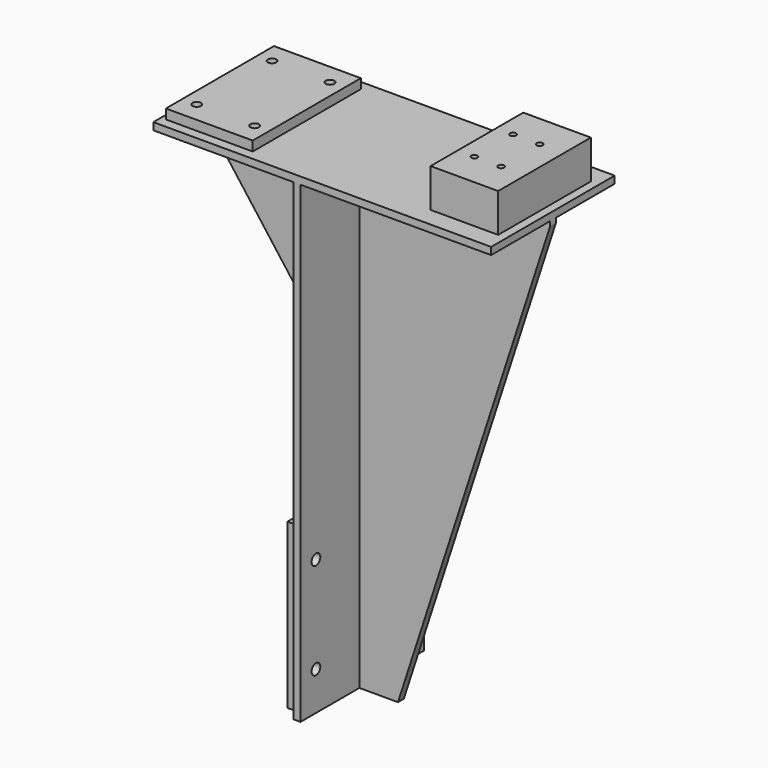
from build123d import *

# Parameters (mm, degrees)
F0_W      = 444.5
F0_H      = 203.2
F1_DEPTH  = 9.525
F2_W      = 114.3
F2_H      = 177.8
F3_DEPTH  = 12.7
F5_D      = 11.1125
F6_W      = 88.9
F6_H      = 152.4
F7_DEPTH  = 50.8
F9_D      = 7.9375
F11_W     = 203.2
F11_H     = 622.3
F12_DEPTH = 9.525
F14_DEPTH = 4.7625
F16_DEPTH = 4.7625
F17_W     = 190.5
F17_H     = 215.9
F18_DEPTH = 12.7
F20_D     = 14.2875


with BuildPart() as f1:
    # F0 (on Top) → F1 (new body)
    with BuildSketch(Plane.XY):
        Rectangle(F0_W, F0_H)
    extrude(amount=-F1_DEPTH)

    # F2 (on face) → F3 (join)
    with BuildSketch(Plane.XY):
        with Locations((-158.75, 0)):
            Rectangle(F2_W, F2_H)
    extrude(amount=F3_DEPTH)

    # F5 (through all)
    with Locations(Plane.XY.offset(12.7)):
        with Locations((-196.85, 61.976), (-120.65, 61.976), (-196.85, -61.976), (-120.65, -61.976)):
            Hole(F5_D / 2)

    # F6 (on face) → F7 (join)
    with BuildSketch(Plane.XY):
        with Locations((166.751, 0)):
            Rectangle(F6_W, F6_H)
    extrude(amount=F7_DEPTH)

    # F9 (through all)
    with Locations(Plane.XY.offset(50.8)):
        with Locations((144.399, 31.75), (179.451, 31.75), (144.399, -31.75), (179.451, -31.75)):
            Hole(F9_D / 2)

    # F11 (on offset) → F12 (join)
    with BuildSketch(Plane(origin=(-38.1, 0, 0), x_dir=(0, -1, 0), z_dir=(-1, 0, 0))):
        with Locations((0, -320.675)):
            Rectangle(F11_W, F11_H)
    extrude(amount=-F12_DEPTH)

    # F13 (on Front) → F14 (join, symmetric)
    with BuildSketch(Plane.XZ):
        Polygon((-38.1, -9.525), (-222.25, -9.525), (-222.25, -47.625), (-50.8, -276.225), (-38.1, -276.225), align=None)
    extrude(amount=F14_DEPTH, both=True)

    # F15 (on Front) → F16 (join, symmetric)
    with BuildSketch(Plane.XZ):
        Polygon((222.25, -9.525), (-28.575, -9.525), (-28.575, -631.825), (22.225, -631.825), (222.25, -15.875), align=None)
    extrude(amount=F16_DEPTH, both=True)

    # F17 (on face) → F18 (join)
    with BuildSketch(Plane(origin=(-38.1, 0, 0), x_dir=(0, -1, 0), z_dir=(-1, 0, 0))):
        with Locations((0, -517.525)):
            Rectangle(F17_W, F17_H)
    extrude(amount=F18_DEPTH)

    # F20 (through all)
    with Locations(Plane(origin=(-50.8, 0, 0), x_dir=(0, -1, 0), z_dir=(-1, 0, 0))):
        with Locations((-76.2, -454.025), (76.2, -454.025), (-76.2, -581.025), (76.2, -581.025)):
            Hole(F20_D / 2)


solid = f1.part
